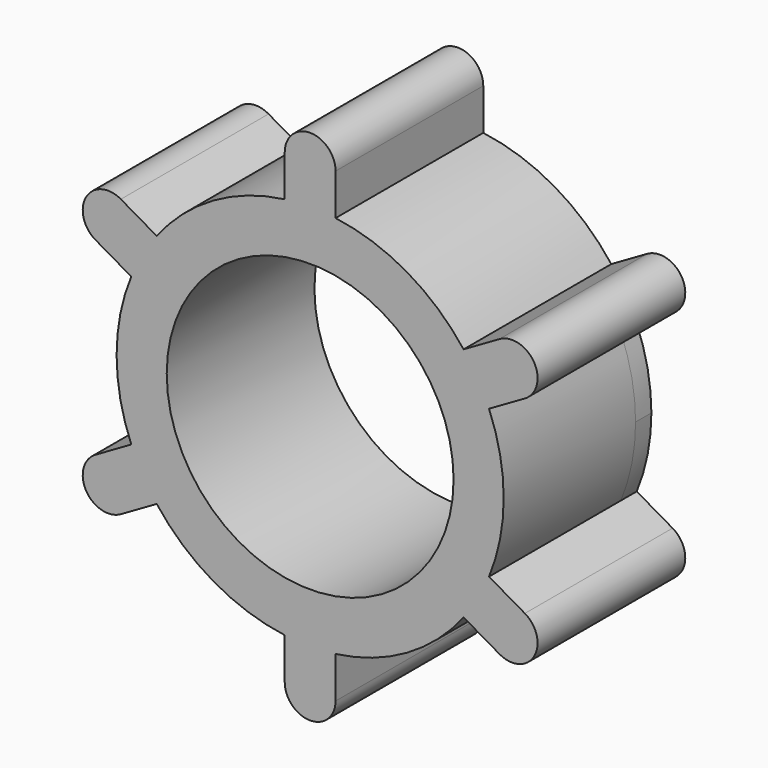
from build123d import *

# Parameters (mm, degrees)
F0_R      = 36.897234
F1_DEPTH  = 5.08
F1_FACE_R = 36.897234
F2_DEPTH  = 42.418


with BuildPart() as f1:
    # F0 (on Front) → F1 (new body)
    with BuildSketch(Plane.XZ):
        with BuildLine():
            ThreePointArc((46.015855, -19.014255), (48.837026, -9.692559), (49.789565, 0))
            ThreePointArc((49.789565, 0), (48.837026, 9.692559), (46.015855, 19.014255))
            Line((46.015855, 19.014255), (37.540586, 14.121056))
            Line((37.540586, 14.121056), (30.999486, 25.450573))
            Line((30.999486, 25.450573), (39.474755, 30.343772))
            ThreePointArc((39.474755, 30.343772), (24.894783, 43.119028), (6.5411, 49.358027))
            Line((6.5411, 49.358027), (6.5411, 39.571629))
            Line((6.5411, 39.571629), (-6.5411, 39.571629))
            Line((-6.5411, 39.571629), (-6.5411, 49.358027))
            ThreePointArc((-6.5411, 49.358027), (-24.894783, 43.119028), (-39.474755, 30.343772))
            Line((-39.474755, 30.343772), (-30.999486, 25.450573))
            Line((-30.999486, 25.450573), (-37.540586, 14.121056))
            Line((-37.540586, 14.121056), (-46.015855, 19.014255))
            ThreePointArc((-46.015855, 19.014255), (-49.789565, 0), (-46.015855, -19.014255))
            Line((-46.015855, -19.014255), (-37.540586, -14.121056))
            Line((-37.540586, -14.121056), (-30.999486, -25.450573))
            Line((-30.999486, -25.450573), (-39.474755, -30.343772))
            ThreePointArc((-39.474755, -30.343772), (-24.894783, -43.119028), (-6.5411, -49.358027))
            Line((-6.5411, -49.358027), (-6.5411, -39.571629))
            Line((-6.5411, -39.571629), (6.5411, -39.571629))
            Line((6.5411, -39.571629), (6.5411, -49.358027))
            ThreePointArc((6.5411, -49.358027), (24.894783, -43.119028), (39.474755, -30.343772))
            Line((39.474755, -30.343772), (30.999486, -25.450573))
            Line((30.999486, -25.450573), (37.540586, -14.121056))
            Line((37.540586, -14.121056), (46.015855, -19.014255))
        make_face()
        Circle(F0_R, mode=Mode.SUBTRACT)
        with BuildLine():
            Line((-30.999486, 25.450573), (-39.474755, 30.343772))
            ThreePointArc((-39.474755, 30.343772), (-43.119028, 24.894783), (-46.015855, 19.014255))
            Line((-46.015855, 19.014255), (-37.540586, 14.121056))
            Line((-37.540586, 14.121056), (-30.999486, 25.450573))
        make_face()
        with BuildLine():
            ThreePointArc((-46.015855, 19.014255), (-43.119028, 24.894783), (-39.474755, 30.343772))
            Line((-39.474755, 30.343772), (-48.697471, 35.668509))
            ThreePointArc((-48.697471, 35.668509), (-57.632779, 33.274301), (-55.238571, 24.338992))
            Line((-55.238571, 24.338992), (-46.015855, 19.014255))
        make_face()
        with BuildLine():
            ThreePointArc((-46.015855, -19.014255), (-43.119028, -24.894783), (-39.474755, -30.343772))
            Line((-39.474755, -30.343772), (-30.999486, -25.450573))
            Line((-30.999486, -25.450573), (-37.540586, -14.121056))
            Line((-37.540586, -14.121056), (-46.015855, -19.014255))
        make_face()
        with BuildLine():
            Line((-48.697471, -35.668509), (-39.474755, -30.343772))
            ThreePointArc((-39.474755, -30.343772), (-43.119028, -24.894783), (-46.015855, -19.014255))
            Line((-46.015855, -19.014255), (-55.238571, -24.338992))
            ThreePointArc((-55.238571, -24.338992), (-57.632779, -33.274301), (-48.697471, -35.668509))
        make_face()
        with BuildLine():
            Line((6.5411, -60.007501), (6.5411, -49.358027))
            ThreePointArc((6.5411, -49.358027), (0, -49.789565), (-6.5411, -49.358027))
            Line((-6.5411, -49.358027), (-6.5411, -60.007501))
            ThreePointArc((-6.5411, -60.007501), (0, -66.548601), (6.5411, -60.007501))
        make_face()
        with BuildLine():
            ThreePointArc((-6.5411, -49.358027), (0, -49.789565), (6.5411, -49.358027))
            Line((6.5411, -49.358027), (6.5411, -39.571629))
            Line((6.5411, -39.571629), (-6.5411, -39.571629))
            Line((-6.5411, -39.571629), (-6.5411, -49.358027))
        make_face()
        with BuildLine():
            ThreePointArc((39.474755, -30.343772), (43.119028, -24.894783), (46.015855, -19.014255))
            Line((46.015855, -19.014255), (37.540586, -14.121056))
            Line((37.540586, -14.121056), (30.999486, -25.450573))
            Line((30.999486, -25.450573), (39.474755, -30.343772))
        make_face()
        with BuildLine():
            Line((55.238571, -24.338992), (46.015855, -19.014255))
            ThreePointArc((46.015855, -19.014255), (43.119028, -24.894783), (39.474755, -30.343772))
            Line((39.474755, -30.343772), (48.697471, -35.668509))
            ThreePointArc((48.697471, -35.668509), (57.632779, -33.274301), (55.238571, -24.338992))
        make_face()
        with BuildLine():
            Line((37.540586, 14.121056), (46.015855, 19.014255))
            ThreePointArc((46.015855, 19.014255), (43.119028, 24.894783), (39.474755, 30.343772))
            Line((39.474755, 30.343772), (30.999486, 25.450573))
            Line((30.999486, 25.450573), (37.540586, 14.121056))
        make_face()
        with BuildLine():
            ThreePointArc((39.474755, 30.343772), (43.119028, 24.894783), (46.015855, 19.014255))
            Line((46.015855, 19.014255), (55.238571, 24.338992))
            ThreePointArc((55.238571, 24.338992), (57.632779, 33.274301), (48.697471, 35.668509))
            Line((48.697471, 35.668509), (39.474755, 30.343772))
        make_face()
        with BuildLine():
            Line((6.5411, 39.571629), (6.5411, 49.358027))
            ThreePointArc((6.5411, 49.358027), (0, 49.789565), (-6.5411, 49.358027))
            Line((-6.5411, 49.358027), (-6.5411, 39.571629))
            Line((-6.5411, 39.571629), (6.5411, 39.571629))
        make_face()
        with BuildLine():
            ThreePointArc((-6.5411, 49.358027), (0, 49.789565), (6.5411, 49.358027))
            Line((6.5411, 49.358027), (6.5411, 60.007501))
            ThreePointArc((6.5411, 60.007501), (0, 66.548601), (-6.5411, 60.007501))
            Line((-6.5411, 60.007501), (-6.5411, 49.358027))
        make_face()
    extrude(amount=F1_DEPTH)

    # F1_face (on face) → F2 (join)
    with BuildSketch(Plane.XZ.offset(5.08)):
        with BuildLine():
            ThreePointArc((-39.474755, -30.343772), (-24.894783, -43.119028), (-6.5411, -49.358027))
            Line((-6.5411, -49.358027), (-6.5411, -60.007501))
            ThreePointArc((-6.5411, -60.007501), (0, -66.548601), (6.5411, -60.007501))
            Line((6.5411, -60.007501), (6.5411, -49.358027))
            ThreePointArc((6.5411, -49.358027), (24.894783, -43.119028), (39.474755, -30.343772))
            Line((39.474755, -30.343772), (48.697471, -35.668509))
            ThreePointArc((48.697471, -35.668509), (57.632779, -33.274301), (55.238571, -24.338992))
            Line((55.238571, -24.338992), (46.015855, -19.014255))
            ThreePointArc((46.015855, -19.014255), (49.789565, 0), (46.015855, 19.014255))
            Line((46.015855, 19.014255), (55.238571, 24.338992))
            ThreePointArc((55.238571, 24.338992), (57.632779, 33.274301), (48.697471, 35.668509))
            Line((48.697471, 35.668509), (39.474755, 30.343772))
            ThreePointArc((39.474755, 30.343772), (24.894783, 43.119028), (6.5411, 49.358027))
            Line((6.5411, 49.358027), (6.5411, 60.007501))
            ThreePointArc((6.5411, 60.007501), (0, 66.548601), (-6.5411, 60.007501))
            Line((-6.5411, 60.007501), (-6.5411, 49.358027))
            ThreePointArc((-6.5411, 49.358027), (-24.894783, 43.119028), (-39.474755, 30.343772))
            Line((-39.474755, 30.343772), (-48.697471, 35.668509))
            ThreePointArc((-48.697471, 35.668509), (-57.632779, 33.274301), (-55.238571, 24.338992))
            Line((-55.238571, 24.338992), (-46.015855, 19.014255))
            ThreePointArc((-46.015855, 19.014255), (-49.789565, 0), (-46.015855, -19.014255))
            Line((-46.015855, -19.014255), (-55.238571, -24.338992))
            ThreePointArc((-55.238571, -24.338992), (-57.632779, -33.274301), (-48.697471, -35.668509))
            Line((-48.697471, -35.668509), (-39.474755, -30.343772))
        make_face()
        Circle(F1_FACE_R, mode=Mode.SUBTRACT)
    extrude(amount=F2_DEPTH)


solid = f1.part
